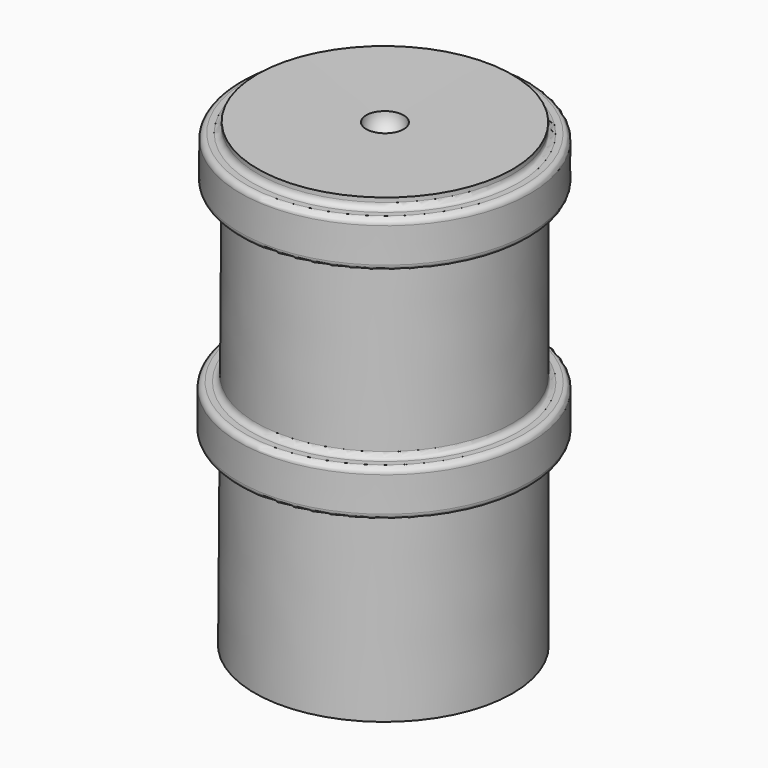
from build123d import *


with BuildPart() as f1:
    # F0 (on Front) → F1 (revolve)
    with BuildSketch(Plane.XZ):
        with BuildLine():
            Line((0.1002255656, 8.591416776), (9.5, 8.5586052402))
            ThreePointArc((9.5, 8.5586052402), (8.85, 9.2086052402), (9.5, 9.8586052402))
            Line((9.5, 9.8586052402), (0.1046489058, 9.8586052402))
            Line((0.1046489058, 9.8586052402), (0.1002255656, 8.591416776))
        make_face()
        Polygon((0, -20.1209761511), (0.1047061455, -20.1209761511), (9.5, -20.1209761511), (9.5, 8.5586052402), (0.1002255656, 8.591416776), align=None)
        with BuildLine():
            Line((9.5, 8.5586052402), (9.5, -20.1209761511))
            Line((9.5, -20.1209761511), (11.2, -20.1209761511))
            Line((11.2, -20.1209761511), (11.2, -4.5))
            ThreePointArc((11.2, -4.5), (11.3464466094, -4.1464466094), (11.7, -4))
            Line((11.7, -4), (12.2, -4))
            ThreePointArc((12.2, -4), (12.5535533906, -3.8535533906), (12.7, -3.5))
            Line((12.7, -3.5), (12.7, -0.5))
            ThreePointArc((12.7, -0.5), (12.5535533906, -0.1464466094), (12.2, 0))
            Line((12.2, 0), (11.7, 0))
            ThreePointArc((11.7, 0), (11.3464466094, 0.1464466094), (11.2, 0.5))
            Line((11.2, 0.5), (11.2, 14.5))
            ThreePointArc((11.2, 14.5), (11.3464466094, 14.8535533906), (11.7, 15))
            Line((11.7, 15), (12.2, 15))
            ThreePointArc((12.2, 15), (12.5535533906, 15.1464466094), (12.7, 15.5))
            Line((12.7, 15.5), (12.7, 18.5))
            ThreePointArc((12.7, 18.5), (12.5535533906, 18.8535533906), (12.2, 19))
            Line((12.2, 19), (11.7, 19))
            ThreePointArc((11.7, 19), (11.3464466094, 19.1464466094), (11.2, 19.5))
            Line((11.2, 19.5), (11.2, 19.8790238489))
            Line((11.2, 19.8790238489), (1.7646269073, 19.8790238489))
            ThreePointArc((1.7646269073, 19.8790238489), (1.2866682096, 18.7279716126), (0.1339545987, 18.2540337489))
            Line((0.1339545987, 18.2540337489), (0.1047633848, 9.891400936))
            Line((0.1047633848, 9.891400936), (9.5, 9.8586052402))
            ThreePointArc((9.5, 9.8586052402), (8.85, 9.2086052402), (9.5, 8.5586052402))
        make_face()
        Polygon((0.1046489058, 9.8586052402), (9.5, 9.8586052402), (0.1047633848, 9.891400936), align=None)
    revolve(axis=Axis((0.0669772994, 0, -0.9334712011), (-0.0034906514, 0, -0.9999939077)))


solid = f1.part
